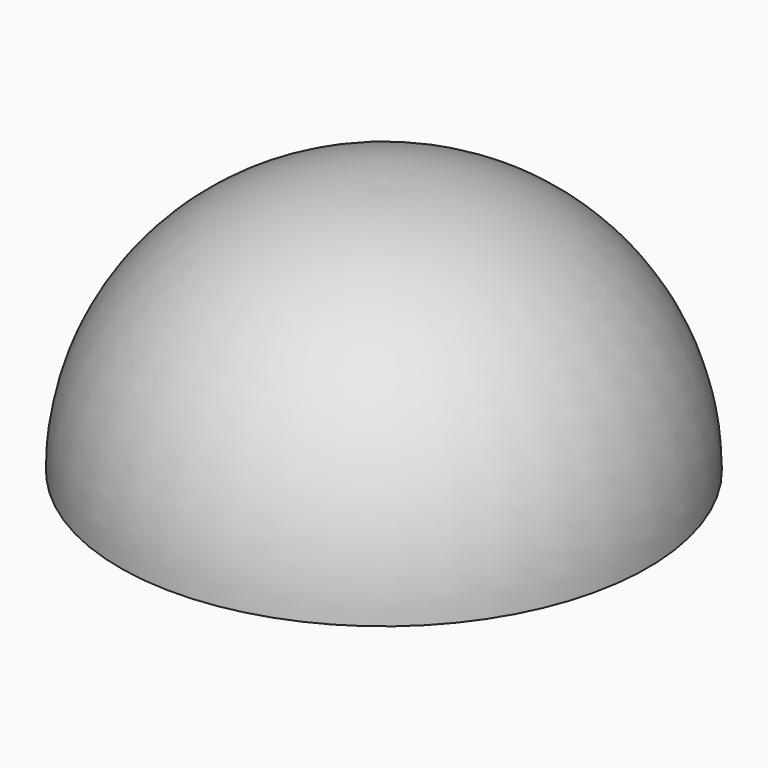
from build123d import *


with BuildPart() as part:
    # Sketch → Revolution (revolve)
    with BuildSketch(Plane.XZ):
        with BuildLine():
            ThreePointArc((0, 577.85), (-429.026392, 419.977018), (-609.6, 0))
            Line((-609.6, 0), (0, 0))
            Line((0, 577.85), (0, 0))
        make_face()
    revolve(axis=Axis((0, 0, 0), (0, 0, 1)))


solid = part.part
